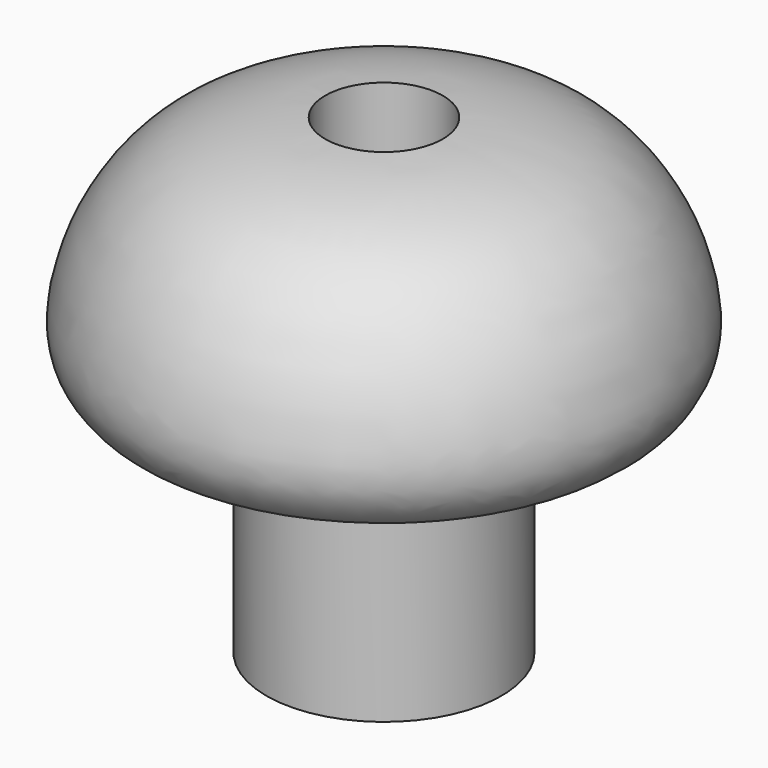
from build123d import *

# Parameters (mm, degrees)
F2_R     = 3.175
F3_DEPTH = 50.8


with BuildPart() as f1:
    # F0 (on Front) → F1 (revolve)
    with BuildSketch(Plane.XZ):
        with BuildLine():
            Line((-6.35, 0), (0, 0))
            Line((0, 0), (0, 12.7))
            Line((0, 12.7), (0, 25.4))
            add(Edge.make_bspline(
                [(0, 25.4), (-1.0989789411, 25.4428147285), (-3.9105574495, 25.6116892308), (-9.7560403158, 24.4270050282), (-12.816339642, 20.8699828794), (-14.1032276511, 17.6437081381), (-14.4846240929, 14.363857314), (-12.0920369456, 11.8108160113), (-9.9926371891, 13.4731296644), (-9.225850874, 14.0390548486), (-8.4934024286, 14.9752908541), (-7.167626794, 14.7439446623), (-6.1653416995, 13.8410033257), (-6.2626039232, 12.8862119677), (-6.35, 12.4193585917)],
                knots=[0, 0, 0, 0, 0.1051184531, 0.2346335526, 0.3481882925, 0.4475751159, 0.5430628896, 0.6313531108, 0.7106543145, 0.7651264968, 0.8195986446, 0.8782523762, 0.9375932886, 1, 1, 1, 1], degree=3))
            Line((-6.35, 12.4193585917), (-6.35, 0))
        make_face()
    revolve(axis=Axis((0, 0, 6.35), (0, 0, 1)))

    # F2 (on face) → F3 (cut)
    with BuildSketch(Plane(origin=(0, 0, 0), x_dir=(1, 0, 0), z_dir=(0, 0, -1))):
        Circle(F2_R)
    extrude(amount=-F3_DEPTH, mode=Mode.SUBTRACT)


solid = f1.part
